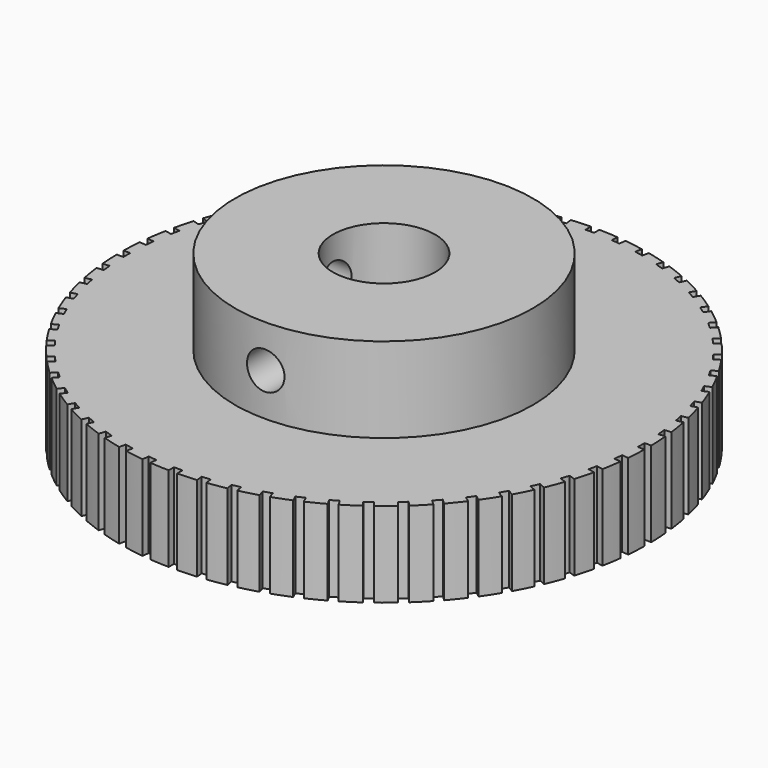
from build123d import *

# Parameters (mm, degrees)
F0_R     = 31
F0_R_2   = 6
F1_DEPTH = 10
F2_R     = 17.5
F2_R_2   = 6
F3_DEPTH = 10
F4_W     = 1
F4_H     = 5
F4_W_2   = 5
F4_H_2   = 1
F5_DEPTH = 25
F7_D     = 4.4
F7_DEPTH = 30.9969674797
F9_D     = 4.4
F9_DEPTH = 30.9969674797


with BuildPart() as f1:
    # F0 (on Top) → F1 (new body)
    with BuildSketch(Plane.XY):
        Circle(F0_R)
        Circle(F0_R_2, mode=Mode.SUBTRACT)
    extrude(amount=F1_DEPTH)

    # F2 (on face) → F3 (join)
    with BuildSketch(Plane.XY.offset(10)):
        Circle(F2_R)
        Circle(F2_R_2, mode=Mode.SUBTRACT)
    extrude(amount=F3_DEPTH)

    # F4 (on face) → F5 (cut)
    with BuildSketch(Plane.XY.offset(10)):
        with Locations((0, 32.7169213615)):
            Rectangle(F4_W, F4_H)
        Polygon((-2.6612674069, 30.1036541362), (-3.1839097232, 35.0762636131), (-4.1784316186, 34.9717351498), (-3.6557893023, 29.999125673), align=None)
        Polygon((-5.7933774112, 29.6605649767), (-6.8329358653, 34.5513029804), (-7.811083466, 34.3433912895), (-6.7715250119, 29.4526532859), align=None)
        Polygon((-8.8620139602, 28.8925084604), (-10.4070989321, 33.6477910419), (-11.3581554484, 33.3387740475), (-9.8130704765, 28.583491466), align=None)
        Polygon((-11.8335564298, 27.8078995753), (-13.8672396452, 32.3756268635), (-14.7807851029, 31.9688902204), (-12.7471018875, 27.4011629322), align=None)
        Polygon((-14.6754479788, 26.4186215232), (-17.1754479788, 30.7487485421), (-18.0414733826, 30.2487485421), (-15.5414733826, 25.9186215232), align=None)
        Polygon((-17.3565522488, 24.7398955253), (-20.2954785102, 28.7849804971), (-21.1044955046, 28.1971952449), (-18.1655692431, 24.152110273), align=None)
        Polygon((-19.8474945002, 22.7901140548), (-23.193147532, 26.5058381822), (-23.9362923574, 25.8367075758), (-20.5906393256, 22.1209834485), align=None)
        Polygon((-22.1209834485, 20.5906393256), (-25.8367075758, 23.9362923574), (-26.5058381822, 23.193147532), (-22.7901140548, 19.8474945002), align=None)
        Polygon((-24.152110273, 18.1655692431), (-28.1971952449, 21.1044955046), (-28.7849804971, 20.2954785102), (-24.7398955253, 17.3565522488), align=None)
        Polygon((-25.9186215232, 15.5414733826), (-30.2487485421, 18.0414733826), (-30.7487485421, 17.1754479788), (-26.4186215232, 14.6754479788), align=None)
        Polygon((-27.4011629322, 12.7471018875), (-31.9688902204, 14.7807851029), (-32.3756268635, 13.8672396452), (-27.8078995753, 11.8335564298), align=None)
        Polygon((-28.583491466, 9.8130704765), (-33.3387740475, 11.3581554484), (-33.6477910419, 10.4070989321), (-28.8925084604, 8.8620139602), align=None)
        Polygon((-29.4526532859, 6.7715250119), (-34.3433912895, 7.811083466), (-34.5513029804, 6.8329358653), (-29.6605649767, 5.7933774112), align=None)
        Polygon((-29.999125673, 3.6557893023), (-34.9717351498, 4.1784316186), (-35.0762636131, 3.1839097232), (-30.1036541362, 2.6612674069), align=None)
        with Locations((-32.7169213615, 0)):
            Rectangle(F4_W_2, F4_H_2)
        Polygon((-30.1036541362, -2.6612674069), (-35.0762636131, -3.1839097232), (-34.9717351498, -4.1784316186), (-29.999125673, -3.6557893023), align=None)
        Polygon((-29.6605649767, -5.7933774112), (-34.5513029804, -6.8329358653), (-34.3433912895, -7.811083466), (-29.4526532859, -6.7715250119), align=None)
        Polygon((-28.8925084604, -8.8620139602), (-33.6477910419, -10.4070989321), (-33.3387740475, -11.3581554484), (-28.583491466, -9.8130704765), align=None)
        Polygon((-27.8078995753, -11.8335564298), (-32.3756268635, -13.8672396452), (-31.9688902204, -14.7807851029), (-27.4011629322, -12.7471018875), align=None)
        Polygon((-26.4186215232, -14.6754479788), (-30.7487485421, -17.1754479788), (-30.2487485421, -18.0414733826), (-25.9186215232, -15.5414733826), align=None)
        Polygon((-24.7398955253, -17.3565522488), (-28.7849804971, -20.2954785102), (-28.1971952449, -21.1044955046), (-24.152110273, -18.1655692431), align=None)
        Polygon((-22.7901140548, -19.8474945002), (-26.5058381822, -23.193147532), (-25.8367075758, -23.9362923574), (-22.1209834485, -20.5906393256), align=None)
        Polygon((-20.5906393256, -22.1209834485), (-23.9362923574, -25.8367075758), (-23.193147532, -26.5058381822), (-19.8474945002, -22.7901140548), align=None)
        Polygon((-18.1655692431, -24.152110273), (-21.1044955046, -28.1971952449), (-20.2954785102, -28.7849804971), (-17.3565522488, -24.7398955253), align=None)
        Polygon((-15.5414733826, -25.9186215232), (-18.0414733826, -30.2487485421), (-17.1754479788, -30.7487485421), (-14.6754479788, -26.4186215232), align=None)
        Polygon((-12.7471018875, -27.4011629322), (-14.7807851029, -31.9688902204), (-13.8672396452, -32.3756268635), (-11.8335564298, -27.8078995753), align=None)
        Polygon((-9.8130704765, -28.583491466), (-11.3581554484, -33.3387740475), (-10.4070989321, -33.6477910419), (-8.8620139602, -28.8925084604), align=None)
        Polygon((-6.7715250119, -29.4526532859), (-7.811083466, -34.3433912895), (-6.8329358653, -34.5513029804), (-5.7933774112, -29.6605649767), align=None)
        Polygon((-3.6557893023, -29.999125673), (-4.1784316186, -34.9717351498), (-3.1839097232, -35.0762636131), (-2.6612674069, -30.1036541362), align=None)
        with Locations((0, -32.7169213615)):
            Rectangle(F4_W, F4_H)
        Polygon((2.6612674069, -30.1036541362), (3.1839097232, -35.0762636131), (4.1784316186, -34.9717351498), (3.6557893023, -29.999125673), align=None)
        Polygon((5.7933774112, -29.6605649767), (6.8329358653, -34.5513029804), (7.811083466, -34.3433912895), (6.7715250119, -29.4526532859), align=None)
        Polygon((8.8620139602, -28.8925084604), (10.4070989321, -33.6477910419), (11.3581554484, -33.3387740475), (9.8130704765, -28.583491466), align=None)
        Polygon((11.8335564298, -27.8078995753), (13.8672396452, -32.3756268635), (14.7807851029, -31.9688902204), (12.7471018875, -27.4011629322), align=None)
        Polygon((14.6754479788, -26.4186215232), (17.1754479788, -30.7487485421), (18.0414733826, -30.2487485421), (15.5414733826, -25.9186215232), align=None)
        Polygon((17.3565522488, -24.7398955253), (20.2954785102, -28.7849804971), (21.1044955046, -28.1971952449), (18.1655692431, -24.152110273), align=None)
        Polygon((19.8474945002, -22.7901140548), (23.193147532, -26.5058381822), (23.9362923574, -25.8367075758), (20.5906393256, -22.1209834485), align=None)
        Polygon((22.1209834485, -20.5906393256), (25.8367075758, -23.9362923574), (26.5058381822, -23.193147532), (22.7901140548, -19.8474945002), align=None)
        Polygon((24.152110273, -18.1655692431), (28.1971952449, -21.1044955046), (28.7849804971, -20.2954785102), (24.7398955253, -17.3565522488), align=None)
        Polygon((25.9186215232, -15.5414733826), (30.2487485421, -18.0414733826), (30.7487485421, -17.1754479788), (26.4186215232, -14.6754479788), align=None)
        Polygon((27.4011629322, -12.7471018875), (31.9688902204, -14.7807851029), (32.3756268635, -13.8672396452), (27.8078995753, -11.8335564298), align=None)
        Polygon((28.583491466, -9.8130704765), (33.3387740475, -11.3581554484), (33.6477910419, -10.4070989321), (28.8925084604, -8.8620139602), align=None)
        Polygon((29.4526532859, -6.7715250119), (34.3433912895, -7.811083466), (34.5513029804, -6.8329358653), (29.6605649767, -5.7933774112), align=None)
        Polygon((29.999125673, -3.6557893023), (34.9717351498, -4.1784316186), (35.0762636131, -3.1839097232), (30.1036541362, -2.6612674069), align=None)
        with Locations((32.7169213615, 0)):
            Rectangle(F4_W_2, F4_H_2)
        Polygon((30.1036541362, 2.6612674069), (35.0762636131, 3.1839097232), (34.9717351498, 4.1784316186), (29.999125673, 3.6557893023), align=None)
        Polygon((29.6605649767, 5.7933774112), (34.5513029804, 6.8329358653), (34.3433912895, 7.811083466), (29.4526532859, 6.7715250119), align=None)
        Polygon((28.8925084604, 8.8620139602), (33.6477910419, 10.4070989321), (33.3387740475, 11.3581554484), (28.583491466, 9.8130704765), align=None)
        Polygon((27.8078995753, 11.8335564298), (32.3756268635, 13.8672396452), (31.9688902204, 14.7807851029), (27.4011629322, 12.7471018875), align=None)
        Polygon((26.4186215232, 14.6754479788), (30.7487485421, 17.1754479788), (30.2487485421, 18.0414733826), (25.9186215232, 15.5414733826), align=None)
        Polygon((24.7398955253, 17.3565522488), (28.7849804971, 20.2954785102), (28.1971952449, 21.1044955046), (24.152110273, 18.1655692431), align=None)
        Polygon((22.7901140548, 19.8474945002), (26.5058381822, 23.193147532), (25.8367075758, 23.9362923574), (22.1209834485, 20.5906393256), align=None)
        Polygon((20.5906393256, 22.1209834485), (23.9362923574, 25.8367075758), (23.193147532, 26.5058381822), (19.8474945002, 22.7901140548), align=None)
        Polygon((18.1655692431, 24.152110273), (21.1044955046, 28.1971952449), (20.2954785102, 28.7849804971), (17.3565522488, 24.7398955253), align=None)
        Polygon((15.5414733826, 25.9186215232), (18.0414733826, 30.2487485421), (17.1754479788, 30.7487485421), (14.6754479788, 26.4186215232), align=None)
        Polygon((12.7471018875, 27.4011629322), (14.7807851029, 31.9688902204), (13.8672396452, 32.3756268635), (11.8335564298, 27.8078995753), align=None)
        Polygon((9.8130704765, 28.583491466), (11.3581554484, 33.3387740475), (10.4070989321, 33.6477910419), (8.8620139602, 28.8925084604), align=None)
        Polygon((6.7715250119, 29.4526532859), (7.811083466, 34.3433912895), (6.8329358653, 34.5513029804), (5.7933774112, 29.6605649767), align=None)
        Polygon((3.6557893023, 29.999125673), (4.1784316186, 34.9717351498), (3.1839097232, 35.0762636131), (2.6612674069, 30.1036541362), align=None)
    extrude(amount=-F5_DEPTH, mode=Mode.SUBTRACT)

    # F7 (through all, one way)
    with BuildSketch(Plane(origin=(0, 0, 0), x_dir=(1, 0, 0), z_dir=(0, 1, 0))):
        with Locations((0, -15)):
            Circle(F7_D / 2)
    extrude(amount=-F7_DEPTH, mode=Mode.SUBTRACT)

    # F9 (through all, one way)
    with BuildSketch(Plane.YZ):
        with Locations((0, 15)):
            Circle(F9_D / 2)
    extrude(amount=-F9_DEPTH, mode=Mode.SUBTRACT)


solid = f1.part
